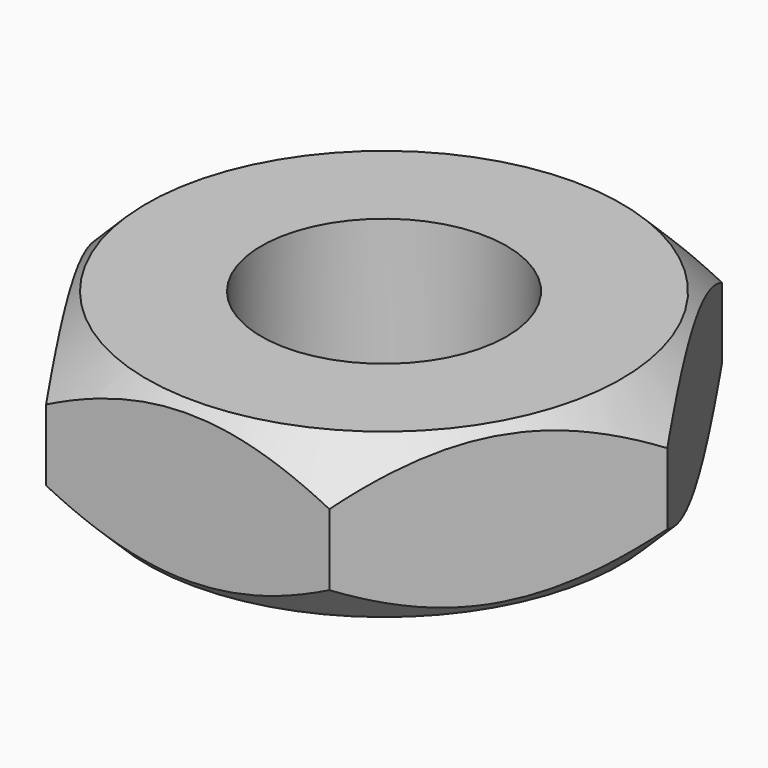
from build123d import *

# Parameters (mm, degrees)
SKETCH_R  = 1.5
PAD_DEPTH = 1


with BuildPart() as part:
    # Sketch → Pad (new body, symmetric)
    with BuildSketch(Plane.XY):
        Polygon((3.464102, 0), (1.732051, 3), (-1.732051, 3), (-3.464102, 0), (-1.732051, -3), (1.732051, -3), align=None)
        Circle(SKETCH_R, mode=Mode.SUBTRACT)
    extrude(amount=PAD_DEPTH, both=True)

    # Sketch001 → Groove (revolve, cut)
    with BuildSketch(Plane.YZ):
        Polygon((2.05363, 1.852295), (2.05363, 2.729858), (5.279402, 2.729858), (5.279402, -3.14441), (2.05363, -3.14441), (2.05363, -1.840465), (3.9, 0), align=None)
    revolve(axis=Axis((0, 0, 0), (0, 0, 1)), mode=Mode.SUBTRACT)


solid = part.part
